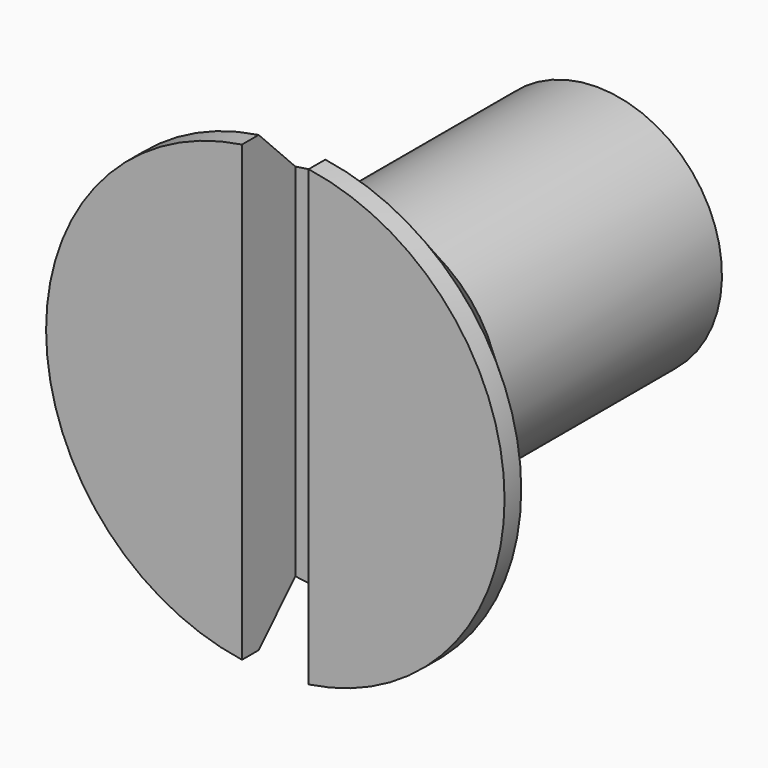
from build123d import *

# Parameters (mm, degrees)
SKETCH001_W  = 11
SKETCH001_H  = 1.6
POCKET_DEPTH = 1.6


with BuildPart() as part:
    # Sketch → Revolution (revolve)
    with BuildSketch(Plane.YZ):
        Polygon((0, 0), (0, 5.5), (0.5, 5.5), (3, 3), (9.64493, 3), (10, 2.385), (10, 0), align=None)
    revolve(axis=Axis((0, 0, 0), (0, 1, 0)))

    # Sketch001 → Pocket (cut)
    with BuildSketch(Plane(origin=(0, 0, 0), x_dir=(0, 0, -1), z_dir=(0, -1, 0))):
        Rectangle(SKETCH001_W, SKETCH001_H)
    extrude(amount=-POCKET_DEPTH, mode=Mode.SUBTRACT)


solid = part.part
